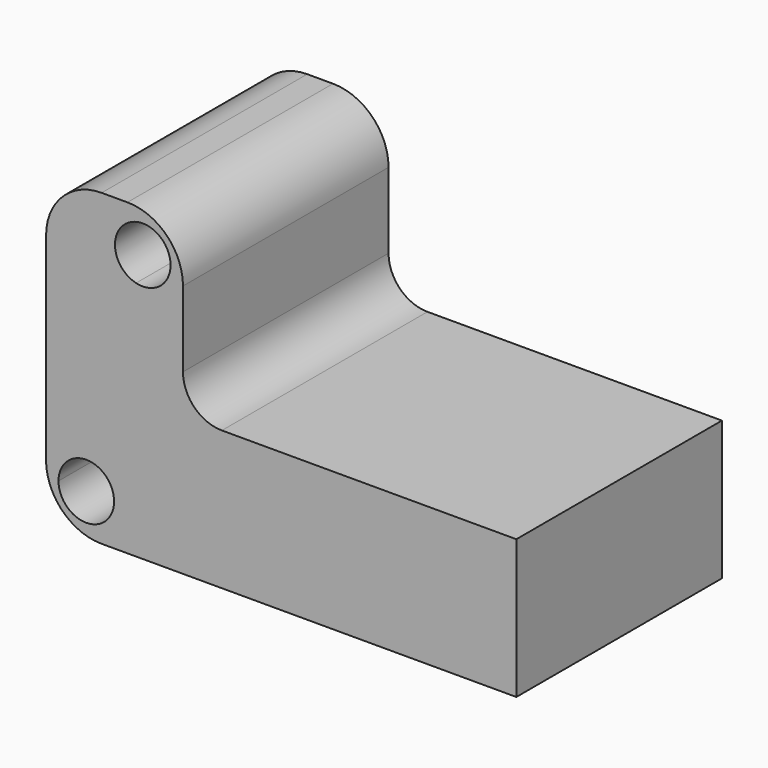
from build123d import *

# Parameters (mm, degrees)
F1_DEPTH = 46.25


with BuildPart() as f1:
    # F0 (on Front) → F1 (new body)
    with BuildSketch(Plane.XZ):
        with BuildLine():
            ThreePointArc((38.958571, 29.182484), (30.880263, 33.122538), (32.748961, 24.331006))
            ThreePointArc((32.748961, 24.331006), (37.036878, 25.242431), (38.958571, 29.182484))
        make_face()
        with BuildLine():
            ThreePointArc((16.559277, -8.999688), (16.643621, -10.295744), (16.895229, -11.569936))
            ThreePointArc((16.895229, -11.569936), (20.464299, -16.927566), (26.559277, -18.999688))
            Line((26.559277, -18.999688), (41.197145, -18.999688))
            Line((41.197145, -18.999688), (41.197145, 6.000312))
            Line((41.197145, 6.000312), (41.197145, 13.000312))
            Line((41.197145, 13.000312), (41.197145, 26.612237))
            ThreePointArc((41.197145, 26.612237), (38.268212, 33.683304), (31.197145, 36.612237))
            Line((31.197145, 36.612237), (26.559277, 36.612237))
            ThreePointArc((26.559277, 36.612237), (19.488209, 33.683304), (16.559277, 26.612237))
            Line((16.559277, 26.612237), (16.559277, -8.999688))
        make_face()
        with BuildLine():
            ThreePointArc((28.797851, -11.569936), (23.797851, -16.569936), (18.797851, -11.569936))
            ThreePointArc((18.797851, -11.569936), (20.719544, -7.629882), (25.00746, -6.718458))
            ThreePointArc((25.00746, -6.718458), (27.737905, -8.491629), (28.797851, -11.569936))
        make_face(mode=Mode.SUBTRACT)
        with BuildLine():
            ThreePointArc((38.958571, 29.182484), (37.036878, 25.242431), (32.748961, 24.331006))
            ThreePointArc((32.748961, 24.331006), (30.880263, 33.122538), (38.958571, 29.182484))
        make_face(mode=Mode.SUBTRACT)
        Polygon((41.197145, 6.000312), (41.197145, -18.999688), (101.197145, -18.999688), (101.197145, 6.000312), (48.197145, 6.000312), align=None)
        with BuildLine():
            Line((41.197145, 13.000312), (41.197145, 6.000312))
            Line((41.197145, 6.000312), (48.197145, 6.000312))
            ThreePointArc((48.197145, 6.000312), (43.247397, 8.050564), (41.197145, 13.000312))
        make_face()
    extrude(amount=F1_DEPTH)


solid = f1.part
